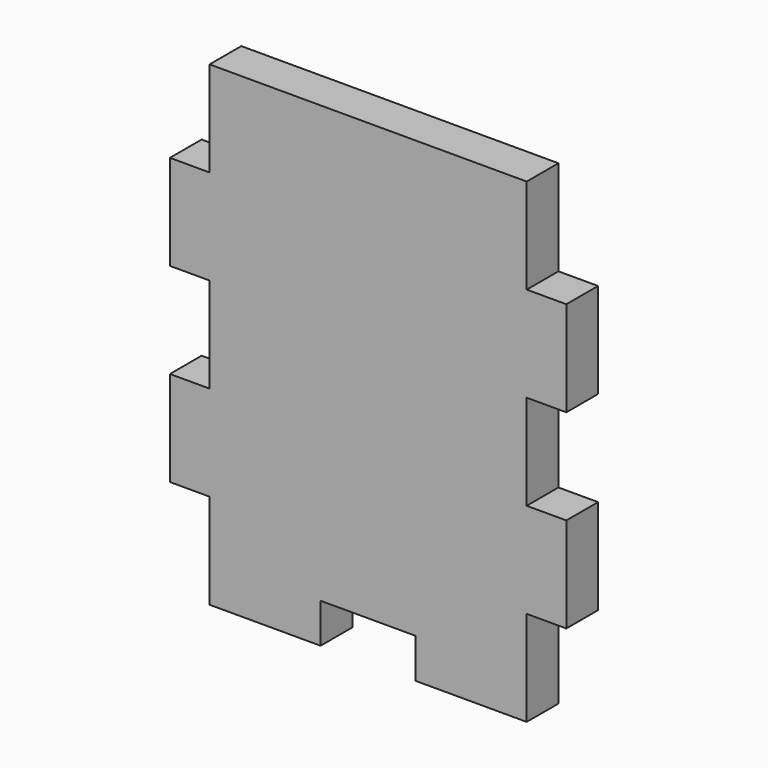
from build123d import *

# Parameters (mm, degrees)
F1_W     = 50
F1_H     = 60
F2_DEPTH = 5
F3_W     = 5
F3_H     = 12
F3_W_2   = 12
F3_H_2   = 5
F4_DEPTH = 5


with BuildPart() as f2:
    # F1 (on Front) → F2 (new body)
    with BuildSketch(Plane.XZ):
        with Locations((25, 30)):
            Rectangle(F1_W, F1_H)
    extrude(amount=F2_DEPTH)

    # F3 (on face) → F4 (cut)
    with BuildSketch(Plane.XZ.offset(5)):
        with Locations((2.5, 54)):
            Rectangle(F3_W, F3_H)
        with Locations((2.5, 30)):
            Rectangle(F3_W, F3_H)
        with Locations((2.5, 6)):
            Rectangle(F3_W, F3_H)
        with Locations((25, 2.5)):
            Rectangle(F3_W_2, F3_H_2)
        with Locations((47.5, 6)):
            Rectangle(F3_W, F3_H)
        with Locations((47.5, 30)):
            Rectangle(F3_W, F3_H)
        with Locations((47.5, 54)):
            Rectangle(F3_W, F3_H)
    extrude(amount=-F4_DEPTH, mode=Mode.SUBTRACT)


solid = f2.part
